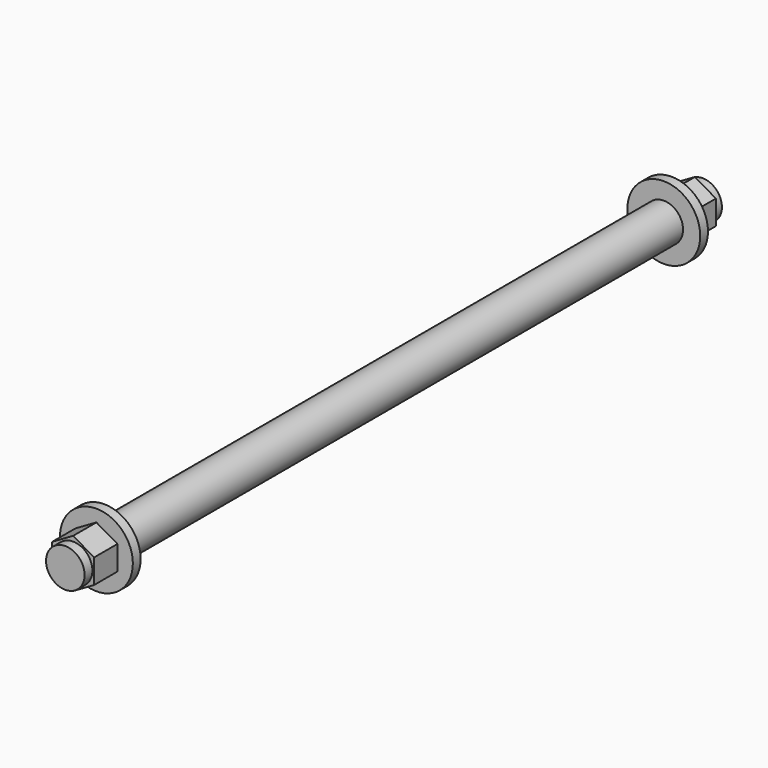
from build123d import *

# Parameters (mm, degrees)
SKETCH013_R     = 3.96875
PAD009_DEPTH    = 164
SKETCH014_R     = 7.5
PAD010_DEPTH    = 10
SKETCH015_R     = 7.5
POCKET003_DEPTH = 8
SKETCH016_R     = 7.5
SKETCH016_R_2   = 3.96875
POCKET004_DEPTH = 2
SKETCH017_R     = 7.5
PAD011_DEPTH    = 10
SKETCH018_R     = 7.5
POCKET005_DEPTH = 8
SKETCH019_R     = 7.5
SKETCH019_R_2   = 3.96875
POCKET006_DEPTH = 2


with BuildPart() as part:
    # Sketch013 → Pad009 (new body)
    with BuildSketch(Plane(origin=(500, 82, 56), x_dir=(1, 0, 0), z_dir=(0, -1, 0))):
        Circle(SKETCH013_R)
    extrude(amount=PAD009_DEPTH)

    # Sketch014 → Pad010 (new body)
    with BuildSketch(Plane(origin=(500, 82, 56), x_dir=(1, 0, 0), z_dir=(0, 1, 0))):
        Circle(SKETCH014_R)
    extrude(amount=-PAD010_DEPTH)

    # Sketch015 → Pocket003 (cut)
    with BuildSketch(Plane(origin=(500, 82, 56), x_dir=(1, 0, 0), z_dir=(0, 1, 0))):
        Circle(SKETCH015_R)
        Polygon((0, 5), (-4.330127, 2.5), (-4.330127, -2.5), (0, -5), (4.330127, -2.5), (4.330127, 2.5), align=None, mode=Mode.SUBTRACT)
    extrude(amount=-POCKET003_DEPTH, mode=Mode.SUBTRACT)

    # Sketch016 → Pocket004 (cut)
    with BuildSketch(Plane(origin=(500, 82, 56), x_dir=(1, 0, 0), z_dir=(0, 1, 0))):
        Circle(SKETCH016_R)
        Circle(SKETCH016_R_2, mode=Mode.SUBTRACT)
    extrude(amount=-POCKET004_DEPTH, mode=Mode.SUBTRACT)

    # Sketch017 → Pad011 (new body)
    with BuildSketch(Plane(origin=(500, -82, 56), x_dir=(1, 0, 0), z_dir=(0, -1, 0))):
        Circle(SKETCH017_R)
    extrude(amount=-PAD011_DEPTH)

    # Sketch018 → Pocket005 (cut)
    with BuildSketch(Plane(origin=(500, -82, 56), x_dir=(1, 0, 0), z_dir=(0, -1, 0))):
        Circle(SKETCH018_R)
        Polygon((0, 5), (-4.330127, 2.5), (-4.330127, -2.5), (0, -5), (4.330127, -2.5), (4.330127, 2.5), align=None, mode=Mode.SUBTRACT)
    extrude(amount=-POCKET005_DEPTH, mode=Mode.SUBTRACT)

    # Sketch019 → Pocket006 (cut)
    with BuildSketch(Plane(origin=(500, -82, 56), x_dir=(1, 0, 0), z_dir=(0, -1, 0))):
        Circle(SKETCH019_R)
        Circle(SKETCH019_R_2, mode=Mode.SUBTRACT)
    extrude(amount=-POCKET006_DEPTH, mode=Mode.SUBTRACT)


solid = part.part
